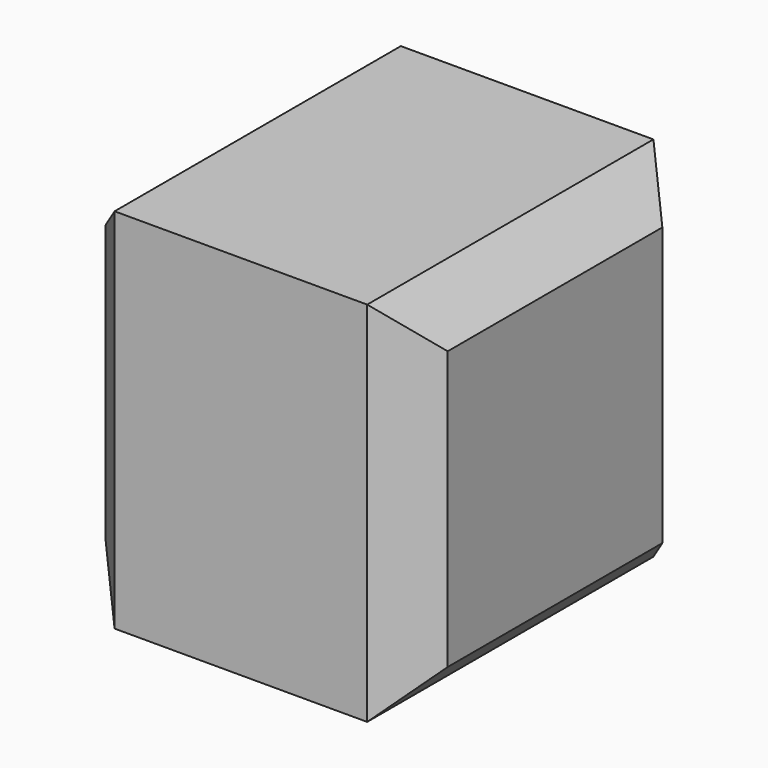
from build123d import *

# Parameters (mm, degrees)
F0_W     = 38.85378
F0_H     = 41.731834
F1_DEPTH = 40.64
F2_SIZE  = 5.08
F3_SIZE  = 5.08


with BuildPart() as f1:
    # F0 (on Front) → F1 (new body)
    with BuildSketch(Plane.XZ):
        Rectangle(F0_W, F0_H)
    extrude(amount=F1_DEPTH)

    # F2
    f2_edges = [f1.edges().sort_by_distance(p)[0] for p in [
        (-19.42689, -20.32, 20.865917),
        (-19.42689, -20.32, -20.865917),
        (-19.42689, 0, 0),
        (-19.42689, -40.64, 0),
    ]]
    chamfer(f2_edges, length=F2_SIZE)

    # F3
    f3_edges = [f1.edges().sort_by_distance(p)[0] for p in [
        (19.42689, -20.32, -20.865917),
        (19.42689, -20.32, 20.865917),
        (19.42689, 0, 0),
        (19.42689, -40.64, 0),
    ]]
    chamfer(f3_edges, length=F3_SIZE)


solid = f1.part
